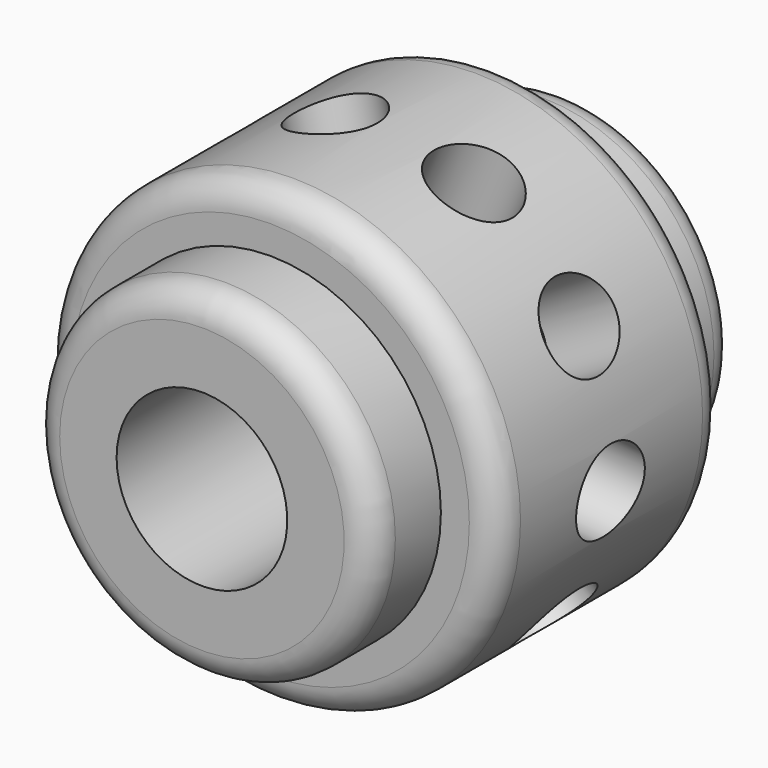
from build123d import *

# Parameters (mm, degrees)
F0_R          = 8
F1_DEPTH      = 10
F2_R          = 6
F3_DEPTH      = 13
F3_DEPTH_BACK = 3
F5_DEPTH      = 10
F13_R         = 1.5
F16_DEPTH     = 3
F14_R         = 1.5
F17_DEPTH     = 3
F15_R         = 1.5
F18_DEPTH     = 3
F6_R          = 1.5
F19_DEPTH     = 3
F7_R          = 1.5
F20_DEPTH     = 3
F8_R          = 1.5
F21_DEPTH     = 3
F9_R          = 1.5
F22_DEPTH     = 3
F10_R         = 1.5
F23_DEPTH     = 3
F11_R         = 1.5
F24_DEPTH     = 3
F12_R         = 1.5
F25_DEPTH     = 3
F26_R         = 3
F27_DEPTH     = 16
F28_R         = 9.2657382737
F28_R_2       = 8
F29_DEPTH     = 10
F30_R         = 1


with BuildPart() as f1:
    # F0 (on Front) → F1 (new body)
    with BuildSketch(Plane.XZ):
        Circle(F0_R)
    extrude(amount=F1_DEPTH)

    # F2 (on face) → F3 (join, two sides)
    with BuildSketch(Plane(origin=(0, 0, 0), x_dir=(-1, 0, 0), z_dir=(0, 1, 0))) as f3_sk:
        Circle(F2_R)
    extrude(amount=-F3_DEPTH)
    extrude(f3_sk.sketch, amount=F3_DEPTH_BACK)

    # F4 (on Front) → F5 (join)
    with BuildSketch(Plane.XZ):
        Polygon((-8.2126331182, -1.8191528364), (-5.5748885523, -6.2989901894), (-0.8077260429, -8.3728273848), (4.2679603613, -7.2485291012), (7.7134309701, -3.3555390694), (8.2126331182, 1.8191528364), (5.5748885523, 6.2989901894), (0.8077260429, 8.3728273848), (-4.2679603613, 7.2485291012), (-7.7134309701, 3.3555390694), align=None)
    extrude(amount=F5_DEPTH)

    # F13 (on face) → F16 (cut)
    with BuildSketch(Plane(origin=(7.9630320441, 0, -0.7681931165), x_dir=(0, 1, 0), z_dir=(0.9953790055, 0, -0.0960241396))):
        with Locations((-5, 0)):
            Circle(F13_R)
    extrude(amount=-F16_DEPTH, mode=Mode.SUBTRACT)

    # F14 (on face) → F17 (cut)
    with BuildSketch(Plane(origin=(6.8937608352, 0, 4.0590715129), x_dir=(0, 1, 0), z_dir=(0.8617201044, 0, 0.5073839391))):
        with Locations((-5, 0)):
            Circle(F14_R)
    extrude(amount=-F17_DEPTH, mode=Mode.SUBTRACT)

    # F15 (on face) → F18 (cut)
    with BuildSketch(Plane(origin=(3.1913072976, 0, 7.3359087871), x_dir=(0.9169885984, 0, -0.3989134122), z_dir=(0.3989134122, 0, 0.9169885984))):
        with Locations((0, -5)):
            Circle(F15_R)
    extrude(amount=-F18_DEPTH, mode=Mode.SUBTRACT)

    # F6 (on face) → F19 (cut)
    with BuildSketch(Plane(origin=(-1.7301171592, 0, 7.810678243), x_dir=(0.9763347804, 0, 0.2162646449), z_dir=(-0.2162646449, 0, 0.9763347804))):
        with Locations((0, -5)):
            Circle(F6_R)
    extrude(amount=-F19_DEPTH, mode=Mode.SUBTRACT)

    # F7 (on face) → F20 (cut)
    with BuildSketch(Plane(origin=(-5.9906956657, 0, 5.3020340853), x_dir=(0, -1, 0), z_dir=(-0.7488369582, 0, 0.6627542607))):
        with Locations((5, 0)):
            Circle(F7_R)
    extrude(amount=-F20_DEPTH, mode=Mode.SUBTRACT)

    # F8 (on face) → F21 (cut)
    with BuildSketch(Plane(origin=(-7.9630320441, 0, 0.7681931165), x_dir=(0, -1, 0), z_dir=(-0.9953790055, 0, 0.0960241396))):
        with Locations((5, 0)):
            Circle(F8_R)
    extrude(amount=-F21_DEPTH, mode=Mode.SUBTRACT)

    # F9 (on face) → F22 (cut)
    with BuildSketch(Plane(origin=(-6.8937608352, 0, -4.0590715129), x_dir=(0, -1, 0), z_dir=(-0.8617201044, 0, -0.5073839391))):
        with Locations((5, 0)):
            Circle(F9_R)
    extrude(amount=-F22_DEPTH, mode=Mode.SUBTRACT)

    # F10 (on face) → F23 (cut)
    with BuildSketch(Plane(origin=(-3.1913072976, 0, -7.3359087871), x_dir=(0.9169885984, 0, -0.3989134122), z_dir=(-0.3989134122, 0, -0.9169885984))):
        with Locations((0, 5)):
            Circle(F10_R)
    extrude(amount=-F23_DEPTH, mode=Mode.SUBTRACT)

    # F11 (on face) → F24 (cut)
    with BuildSketch(Plane(origin=(1.7301171592, 0, -7.810678243), x_dir=(0.9763347804, 0, 0.2162646449), z_dir=(0.2162646449, 0, -0.9763347804))):
        with Locations((0, 5)):
            Circle(F11_R)
    extrude(amount=-F24_DEPTH, mode=Mode.SUBTRACT)

    # F12 (on face) → F25 (cut)
    with BuildSketch(Plane(origin=(5.9906956657, 0, -5.3020340853), x_dir=(0, 1, 0), z_dir=(0.7488369582, 0, -0.6627542607))):
        with Locations((-5, 0)):
            Circle(F12_R)
    extrude(amount=-F25_DEPTH, mode=Mode.SUBTRACT)

    # F26 (on face) → F27 (cut)
    with BuildSketch(Plane(origin=(0, 3, 0), x_dir=(-1, 0, 0), z_dir=(0, 1, 0))):
        Circle(F26_R)
    extrude(amount=-F27_DEPTH, mode=Mode.SUBTRACT)

    # F28 (on Front) → F29 (cut)
    with BuildSketch(Plane.XZ):
        Circle(F28_R)
        Circle(F28_R_2, mode=Mode.SUBTRACT)
    extrude(amount=F29_DEPTH, mode=Mode.SUBTRACT)

    # F30
    f30_edges = [f1.edges().sort_by_distance(p)[0] for p in [
        (-8, -10, 0),
        (6, -13, 0),
        (-8, 0, 0),
        (6, 3, 0),
    ]]
    fillet(f30_edges, radius=F30_R)


solid = f1.part
